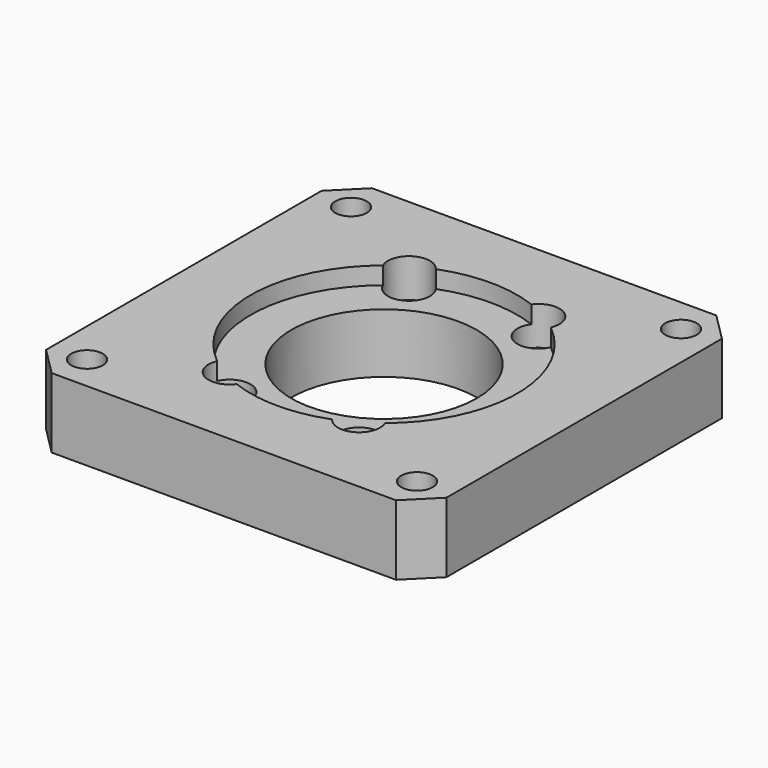
from build123d import *

# Parameters (mm, degrees)
F0_W            = 57.2
F0_H            = 57.2
F1_DEPTH        = 10
F2_SIZE         = 4
F3_R            = 19.05
F4_DEPTH        = 2.5
F5_R            = 14
F6_DEPTH        = 1
F7_R            = 13.25
F8_DEPTH        = 8.501
F10_D           = 4.5
F12_D           = 3.5
F12_START       = 2.5
F12_CBORE_D     = 6
F12_CBORE_DEPTH = 3


with BuildPart() as f1:
    # F0 (on Top) → F1 (new body)
    with BuildSketch(Plane.XY):
        Rectangle(F0_W, F0_H)
    extrude(amount=F1_DEPTH)

    # F2
    f2_edges = [f1.edges().sort_by_distance(p)[0] for p in [
        (-28.6, 28.6, 5),
        (28.6, 28.6, 5),
        (28.6, -28.6, 5),
        (-28.6, -28.6, 5),
    ]]
    chamfer(f2_edges, length=F2_SIZE)

    # F3 (on face) → F4 (cut)
    with BuildSketch(Plane.XY.offset(10)):
        Circle(F3_R)
    extrude(amount=-F4_DEPTH, mode=Mode.SUBTRACT)

    # F5 (on face) → F6 (join)
    with BuildSketch(Plane(origin=(0, 0, 0), x_dir=(1, 0, 0), z_dir=(0, 0, -1))):
        Circle(F5_R)
    extrude(amount=F6_DEPTH)

    # F7 (on face) → F8 (cut, through all)
    with BuildSketch(Plane.XY.offset(7.5)):
        Circle(F7_R)
    extrude(amount=-F8_DEPTH, mode=Mode.SUBTRACT)

    # F10 (through all)
    with Locations(Plane.XY.offset(10)):
        with Locations((-23.5749400848, 23.5749400848), (23.5749400848, 23.5749400848), (23.5749400848, -23.5749400848), (-23.5749400848, -23.5749400848)):
            Hole(F10_D / 2)

    # F12 (through all)
    # its depths count from where the whole tool has entered the part; down to there all is cleared
    with Locations(Plane.XY.offset(10).offset(-F12_START)):
        with Locations((-9.25, 16.02146997), (9.25, 16.02146997), (9.25, -16.02146997), (-9.25, -16.02146997)):
            CounterBoreHole(F12_D / 2, F12_CBORE_D / 2, F12_CBORE_DEPTH)


solid = f1.part
